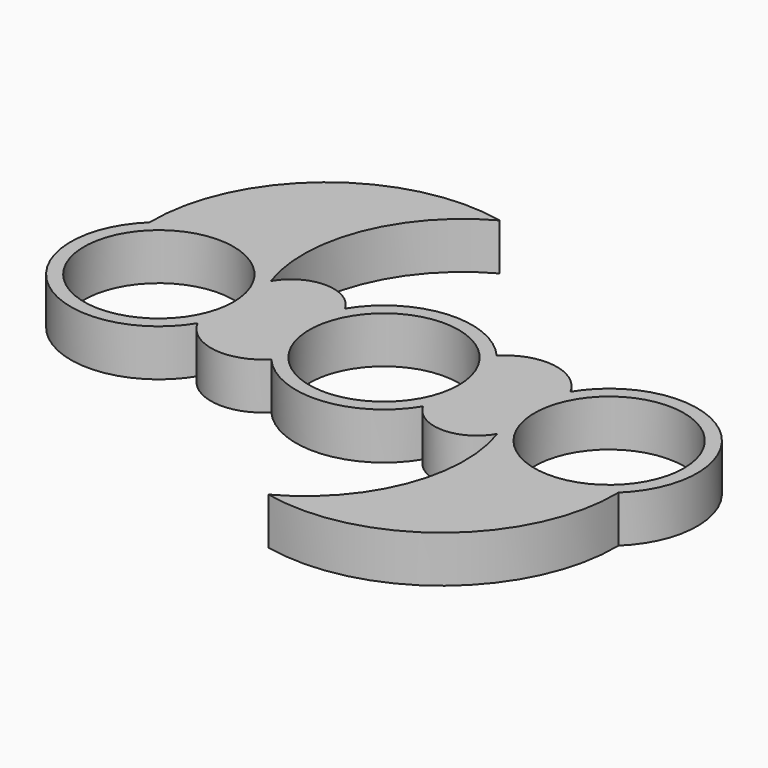
from build123d import *

# Parameters (mm, degrees)
F0_R     = 11.2
F1_DEPTH = 7


with BuildPart() as f1:
    # F0 (on Top) → F1 (new body)
    with BuildSketch(Plane.XY):
        with BuildLine():
            ThreePointArc((-22.459966, -6.848013), (-16.682452, -10.897947), (-10.009901, -8.604759))
            ThreePointArc((-10.009901, -8.604759), (1.097933, -13.154259), (11.297869, -6.826285))
            ThreePointArc((11.297869, -6.826285), (16.872339, -10.084328), (22.446809, -6.826285))
            ThreePointArc((22.446809, -6.826285), (22.058278, -23.269706), (11.146432, -35.576966))
            ThreePointArc((11.146432, -35.576966), (33.279978, -30.25705), (42.817652, -9.587551))
            ThreePointArc((42.817652, -9.587551), (42.036535, 10.270594), (22.459966, 6.848013))
            ThreePointArc((22.459966, 6.848013), (16.682452, 10.897947), (10.009901, 8.604759))
            ThreePointArc((10.009901, 8.604759), (-1.097933, 13.154259), (-11.297869, 6.826285))
            ThreePointArc((-11.297869, 6.826285), (-16.872339, 10.084328), (-22.446809, 6.826285))
            ThreePointArc((-22.446809, 6.826285), (-22.058278, 23.269706), (-11.146432, 35.576966))
            ThreePointArc((-11.146432, 35.576966), (-33.279978, 30.25705), (-42.817652, 9.587551))
            ThreePointArc((-42.817652, 9.587551), (-42.036535, -10.270594), (-22.459966, -6.848013))
        make_face()
        with Locations((-33.744678, 0)):
            Circle(F0_R, mode=Mode.SUBTRACT)
        Circle(F0_R, mode=Mode.SUBTRACT)
        with Locations((33.744678, 0)):
            Circle(F0_R, mode=Mode.SUBTRACT)
    extrude(amount=F1_DEPTH)


solid = f1.part
